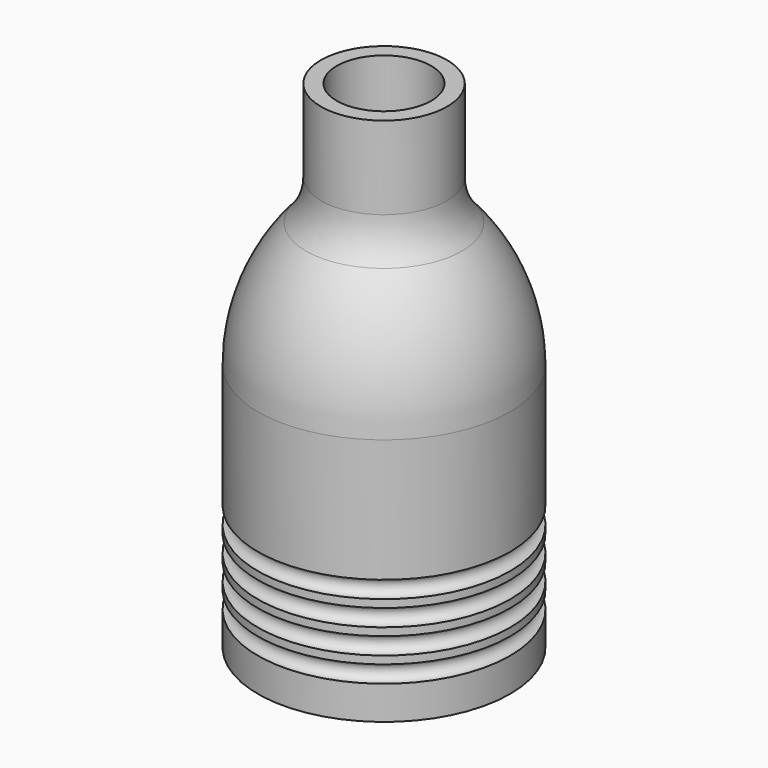
from build123d import *


with BuildPart() as f1:
    # F0 (on Front) → F1 (revolve)
    with BuildSketch(Plane.XZ):
        with BuildLine():
            Line((-44.45, 6.35), (-44.45, 100))
            ThreePointArc((-44.45, 100), (-39.864682, 124.890636), (-26.710737, 146.51337))
            ThreePointArc((-26.710737, 146.51337), (-21.030179, 155.851192), (-19.05, 166.600263))
            Line((-19.05, 166.600263), (-19.05, 200))
            Line((-19.05, 200), (-25.4, 200))
            Line((-25.4, 200), (-25.4, 166.600263))
            ThreePointArc((-25.4, 166.600263), (-26.963332, 158.113977), (-31.448076, 150.741858))
            ThreePointArc((-31.448076, 150.741858), (-45.797835, 127.153421), (-50.8, 100))
            Line((-50.8, 100), (-50.8, 50.400589))
            ThreePointArc((-50.8, 50.400589), (-47.3689, 46.969489), (-50.8, 43.538388))
            Line((-50.8, 43.538388), (-50.8, 40.400589))
            ThreePointArc((-50.8, 40.400589), (-47.3689, 36.969489), (-50.8, 33.538388))
            Line((-50.8, 33.538388), (-50.8, 30.400589))
            ThreePointArc((-50.8, 30.400589), (-47.3689, 26.969489), (-50.8, 23.538388))
            Line((-50.8, 23.538388), (-50.8, 20.400589))
            ThreePointArc((-50.8, 20.400589), (-47.3689, 16.969489), (-50.8, 13.538388))
            Line((-50.8, 13.538388), (-50.8, 0))
            Line((-50.8, 0), (0, 0))
            Line((0, 0), (0, 6.35))
            Line((0, 6.35), (-44.45, 6.35))
        make_face()
    revolve(axis=Axis((0, 0, 31.065341), (0, 0, 1)))


solid = f1.part
